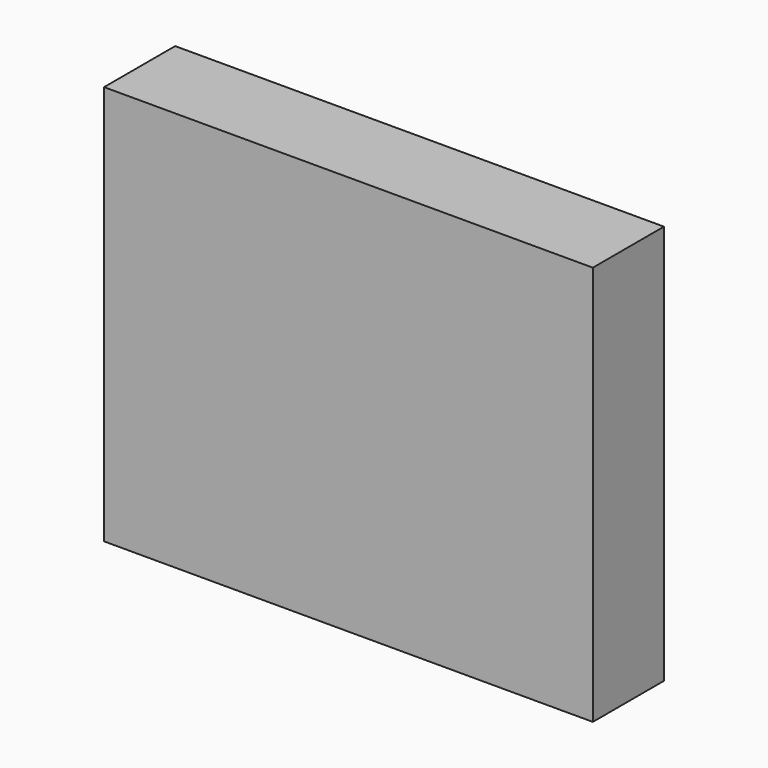
from build123d import *

# Parameters (mm, degrees)
F0_W      = 210
F0_H      = 54
F1_DEPTH  = 12
F3_W      = 90
F3_H      = 68
F4_DEPTH  = 12
F6_W      = 90
F6_H      = 54
F7_DEPTH  = 12
F9_W      = 66
F9_H      = 54
F10_DEPTH = 12


with BuildPart() as f1:
    # F0 (on Front) → F1 (new body)
    with BuildSketch(Plane.XZ):
        with Locations((3.5633459853, 0)):
            Rectangle(F0_W, F0_H)
    extrude(amount=F1_DEPTH)


with BuildPart() as f4:
    # F3 (on Front) → F4 (new body)
    with BuildSketch(Plane.XZ):
        with Locations((0, -2.5499821276)):
            Rectangle(F3_W, F3_H)
    extrude(amount=F4_DEPTH)


with BuildPart() as f7:
    # F6 (on Front) → F7 (new body)
    with BuildSketch(Plane.XZ):
        Rectangle(F6_W, F6_H)
    extrude(amount=F7_DEPTH)


with BuildPart() as f10:
    # F9 (on Front) → F10 (new body)
    with BuildSketch(Plane.XZ):
        Rectangle(F9_W, F9_H)
    extrude(amount=F10_DEPTH)


solid = f10.part
